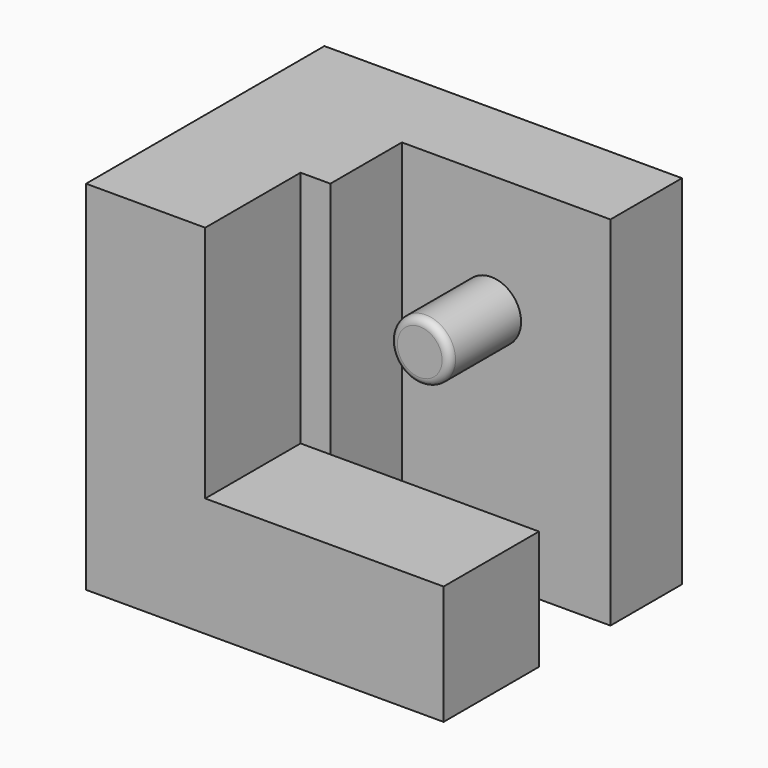
from build123d import *

# Parameters (mm, degrees)
F0_W     = 38.1
F0_H     = 31.75
F1_DEPTH = 38.1
F2_W     = 25.4
F2_H     = 25.4
F3_DEPTH = 12.7
F4_W     = 22.225
F4_H     = 9.525
F5_DEPTH = 38.101
F6_R     = 3.175
F7_DEPTH = 9.525
F8_R     = 0.79375


with BuildPart() as f1:
    # F0 (on Top) → F1 (new body)
    with BuildSketch(Plane.XY):
        with Locations((19.05, -15.875)):
            Rectangle(F0_W, F0_H)
    extrude(amount=F1_DEPTH)

    # F2 (on face) → F3 (cut)
    with BuildSketch(Plane.XZ.offset(31.75)):
        with Locations((25.4, 25.4)):
            Rectangle(F2_W, F2_H)
    extrude(amount=-F3_DEPTH, mode=Mode.SUBTRACT)

    # F4 (on face) → F5 (cut, through all)
    with BuildSketch(Plane.XY.offset(38.1)):
        with Locations((26.9875, -14.2875)):
            Rectangle(F4_W, F4_H)
    extrude(amount=-F5_DEPTH, mode=Mode.SUBTRACT)

    # F6 (on face) → F7 (join)
    with BuildSketch(Plane.XZ.offset(9.525)):
        with Locations((25.4, 25.4)):
            Circle(F6_R)
    extrude(amount=F7_DEPTH)

    # F8
    f8_edges = [f1.edges().sort_by_distance(p)[0] for p in [
        (22.225, -19.05, 25.4),
    ]]
    fillet(f8_edges, radius=F8_R)


solid = f1.part
